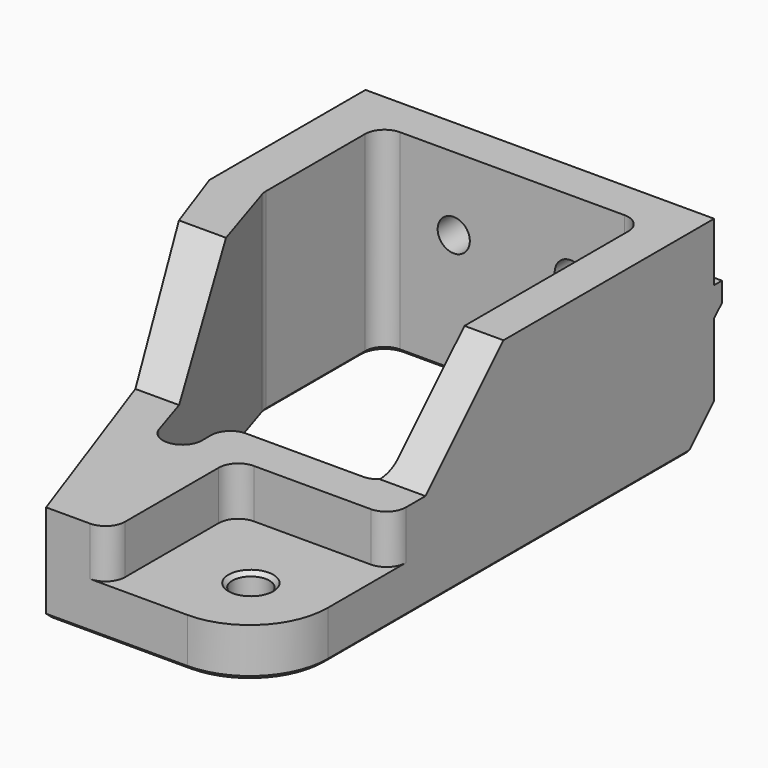
from build123d import *

# Parameters (mm, degrees)
PAD005_DEPTH                               = 20
SKETCH019_W                                = 17
SKETCH019_H                                = 17
POCKET013_DEPTH                            = 15
FILLET004_R                                = 2
SKETCH020_R                                = 1.9
POCKET014_DEPTH                            = 5
FILLET005_R                                = 8
POCKET015_DEPTH                            = 20.001
FILLET006_R                                = 2
POCKET016_DEPTH                            = 36.251
CHAMFER004013007011015006009007001032_SIZE = 3
SKETCH023_R                                = 1.65
POCKET017_DEPTH                            = 5
SKETCH024_W                                = 6.5
SKETCH024_H                                = 3
SKETCH024_W_2                              = 7.25
PAD006_DEPTH                               = 1
CHAMFER004013007011015006009007001033_SIZE = 0.99
CHAMFER004013007011015006009007001034_SIZE = 0.4


with BuildPart() as part:
    # Sketch018 → Pad005 (new body)
    with BuildSketch(Plane.XY):
        Polygon((-28.25, 50), (7.5, 50), (7.5, -7.5), (-15, -7.5), (-28.25, 30), align=None)
    extrude(amount=PAD005_DEPTH)

    # Sketch019 (on Face7 of Pad005) → Pocket013 (cut)
    with BuildSketch(Plane.XY.offset(20)):
        Rectangle(SKETCH019_W, SKETCH019_H)
    extrude(amount=-POCKET013_DEPTH, mode=Mode.SUBTRACT)

    # Fillet004
    fillet004_edges = [part.edges().sort_by_distance(p)[0] for p in [
        (-8.5, -7.5, 12.5),
        (-8.5, 8.5, 12.5),
        (7.5, 8.5, 12.5),
    ]]
    fillet(fillet004_edges, radius=FILLET004_R)

    # Sketch020 (on Face5 of Fillet004) → Pocket014 (cut)
    with BuildSketch(Plane.XY.offset(5)):
        Circle(SKETCH020_R)
    extrude(amount=-POCKET014_DEPTH, mode=Mode.SUBTRACT)

    # Fillet005
    fillet005_edges = [part.edges().sort_by_distance(p)[0] for p in [
        (7.5, -7.5, 2.5),
    ]]
    fillet(fillet005_edges, radius=FILLET005_R)

    # Sketch021 (on DatumPlane) → Pocket015 (cut, through all)
    with BuildSketch(Plane.XY.offset(20)):
        Polygon((-23.5, 31), (-23.5, 46), (3.5, 46), (3.5, 12.5), (-12.5, 12.5), (-12.5, -3.5), align=None)
    extrude(amount=-POCKET015_DEPTH, mode=Mode.SUBTRACT)

    # Fillet006
    fillet006_edges = [part.edges().sort_by_distance(p)[0] for p in [
        (3.5, 12.5, 10),
        (-12.5, 12.5, 10),
        (-12.5, -3.5, 10),
        (-23.5, 31, 10),
        (3.5, 46, 10),
        (-23.5, 46, 10),
    ]]
    fillet(fillet006_edges, radius=FILLET006_R)

    # Sketch022 (on DatumPlane) → Pocket016 (cut, through all)
    with BuildSketch(Plane.YZ.offset(8)):
        Polygon((-8, 10), (13, 10), (23, 20), (-8, 20), align=None)
    extrude(amount=-POCKET016_DEPTH, mode=Mode.SUBTRACT)

    # Chamfer004013007011015006009007001032
    chamfer004013007011015006009007001032_edges = [part.edges().sort_by_distance(p)[0] for p in [
        (-10.375, 50, 0),
    ]]
    chamfer(chamfer004013007011015006009007001032_edges, length=CHAMFER004013007011015006009007001032_SIZE)

    # Sketch023 (on DatumPlane) → Pocket017 (cut)
    with BuildSketch(Plane.XZ.offset(-50)):
        with Locations((-16, 12.5)):
            Circle(SKETCH023_R)
        with Locations((-4, 12.5)):
            Circle(SKETCH023_R)
    extrude(amount=POCKET017_DEPTH, mode=Mode.SUBTRACT)

    # Sketch024 (on DatumPlane) → Pad006 (join)
    with BuildSketch(Plane.XZ.offset(-50)):
        with Locations((4.25, 12.5)):
            Rectangle(SKETCH024_W, SKETCH024_H)
        with Locations((-24.625, 12.5)):
            Rectangle(SKETCH024_W_2, SKETCH024_H)
    extrude(amount=-PAD006_DEPTH)

    # Chamfer004013007011015006009007001033
    chamfer004013007011015006009007001033_edges = [part.edges().sort_by_distance(p)[0] for p in [
        (4.25, 51, 11),
        (-24.625, 51, 11),
    ]]
    chamfer(chamfer004013007011015006009007001033_edges, length=CHAMFER004013007011015006009007001033_SIZE)

    # Chamfer004013007011015006009007001034
    chamfer004013007011015006009007001034_edges = [part.edges().sort_by_distance(p)[0] for p in [
        (7.5, 23.75, 0),
        (5.156854, -5.156854, 0),
        (-7.75, -7.5, 0),
        (-21.625, 11.25, 0),
        (-28.25, 38.5, 0),
        (-28.25, 48.5, 1.5),
        (7.5, 48.5, 1.5),
        (-14.192573, 7.380348, 0),
        (-11.914214, 11.914214, 0),
        (-12.5, 9.92829, 0),
        (-4.5, 12.5, 0),
        (2.914214, 13.085786, 0),
        (3.5, 29.25, 0),
        (2.914214, 45.414214, 0),
        (-10, 46, 0),
        (-22.914214, 45.414214, 0),
        (-23.5, 37.655562, 0),
        (-19.905489, 19.726305, 0),
        (-23.476231, 31.003698, 0),
        (-1.9, 0, 0),
        (-1.9, 0, 5),
    ]]
    chamfer(chamfer004013007011015006009007001034_edges, length=CHAMFER004013007011015006009007001034_SIZE)


solid = part.part
